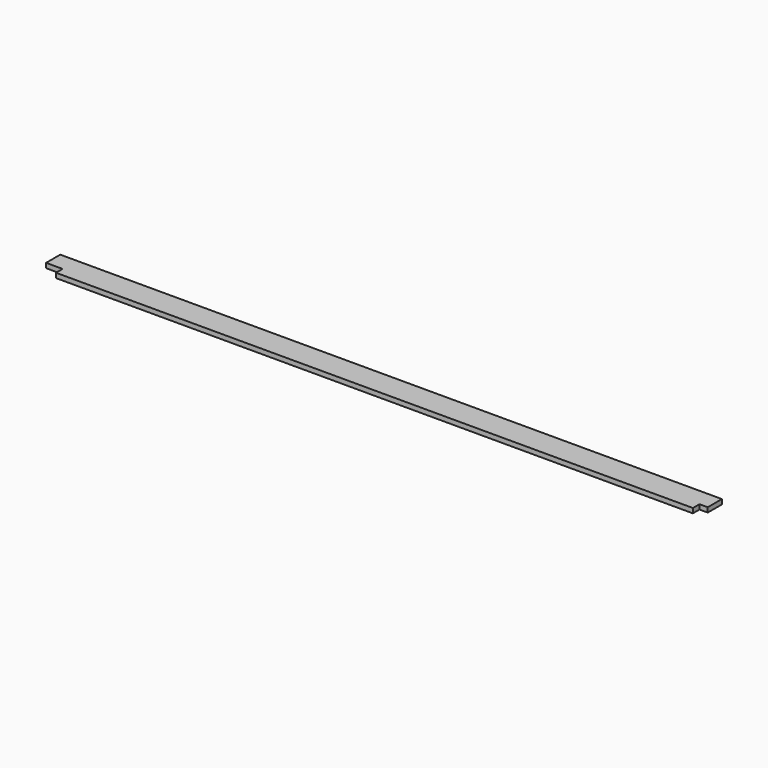
from build123d import *

# Parameters (mm, degrees)
F0_W     = 3556
F0_H     = 139.7
F1_DEPTH = 25.4
F2_W     = 88.9
F2_H     = 44.45
F3_DEPTH = 25.401
F4_W     = 44.45
F4_H     = 44.45
F5_DEPTH = 25.401


with BuildPart() as f1:
    # F0 (on Top) → F1 (new body)
    with BuildSketch(Plane.XY):
        Rectangle(F0_W, F0_H)
    extrude(amount=F1_DEPTH)

    # F2 (on face) → F3 (cut, through all)
    with BuildSketch(Plane.XY.offset(25.4)):
        with Locations((-1733.55, -47.625)):
            Rectangle(F2_W, F2_H)
    extrude(amount=-F3_DEPTH, mode=Mode.SUBTRACT)

    # F4 (on face) → F5 (cut, through all)
    with BuildSketch(Plane.XY.offset(25.4)):
        with Locations((1755.775, -47.625)):
            Rectangle(F4_W, F4_H)
    extrude(amount=-F5_DEPTH, mode=Mode.SUBTRACT)


solid = f1.part
